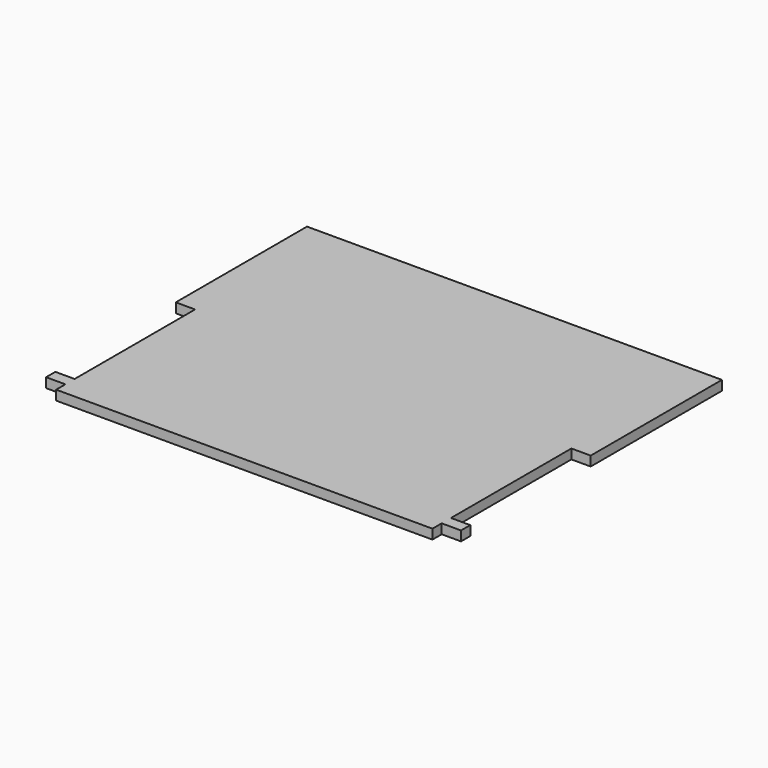
from build123d import *

# Parameters (mm, degrees)
SKETCH037_W     = 21.5
SKETCH037_H     = 35
PAD014_DEPTH    = 1
SKETCH038_W     = 1.2
SKETCH038_H     = 1
SKETCH038_W_2   = 15.6
POCKET024_DEPTH = 2


with BuildPart() as part:
    # Sketch037 → Pad014 (new body)
    with BuildSketch(Plane.XY):
        with Locations((10.75, 17.5)):
            Rectangle(SKETCH037_W, SKETCH037_H)
    extrude(amount=PAD014_DEPTH)

    # Sketch038 (on Face2 of Pad014) → Pocket024 (cut)
    with BuildSketch(Plane.YZ.offset(21.5)):
        with Locations((0.6, 0.5)):
            Rectangle(SKETCH038_W, SKETCH038_H)
        with Locations((10.2, 0.5)):
            Rectangle(SKETCH038_W_2, SKETCH038_H)
    extrude(amount=-POCKET024_DEPTH, mode=Mode.SUBTRACT)

    # Mirrored: part across face of Pocket024


with BuildPart() as part_1:
    add(part.part)
    add(part.part.mirror(Plane(origin=(0, 17.5, 0.5), x_dir=(0, -1, 0), z_dir=(-1, 0, 0))))


solid = part_1.part
